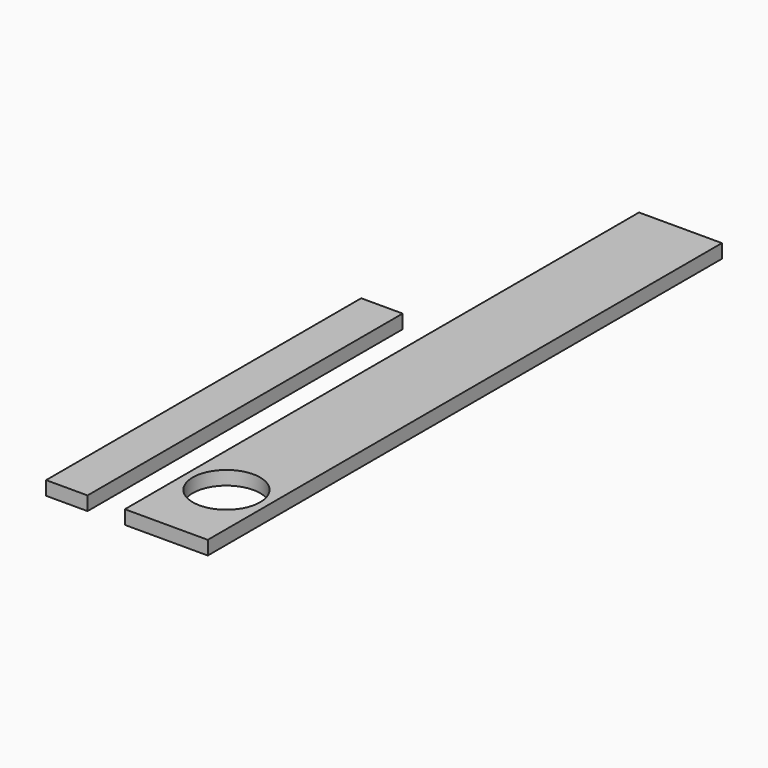
from build123d import *

# Parameters (mm, degrees)
F0_W     = 152.4
F0_H     = 1181.1
F0_R     = 61.9125
F1_DEPTH = 6.35
F0_W_2   = 76.2
F0_H_2   = 723.9
F2_DEPTH = 25.4


with BuildPart() as f1:
    # F0 (on Top) → F1 (new body)
    with BuildSketch(Plane.XY):
        with Locations((144.772387, 590.55)):
            Rectangle(F0_W, F0_H)
        with Locations((144.772387, 138.1125)):
            Circle(F0_R, mode=Mode.SUBTRACT)
    extrude(amount=F1_DEPTH)

    # F0 (on Top) → F2 (join)
    with BuildSketch(Plane.XY):
        with Locations((-38.1, 361.95)):
            Rectangle(F0_W_2, F0_H_2)
        with Locations((144.772387, 590.55)):
            Rectangle(F0_W, F0_H)
        with Locations((144.772387, 138.1125)):
            Circle(F0_R, mode=Mode.SUBTRACT)
    extrude(amount=F2_DEPTH)


solid = f1.part
